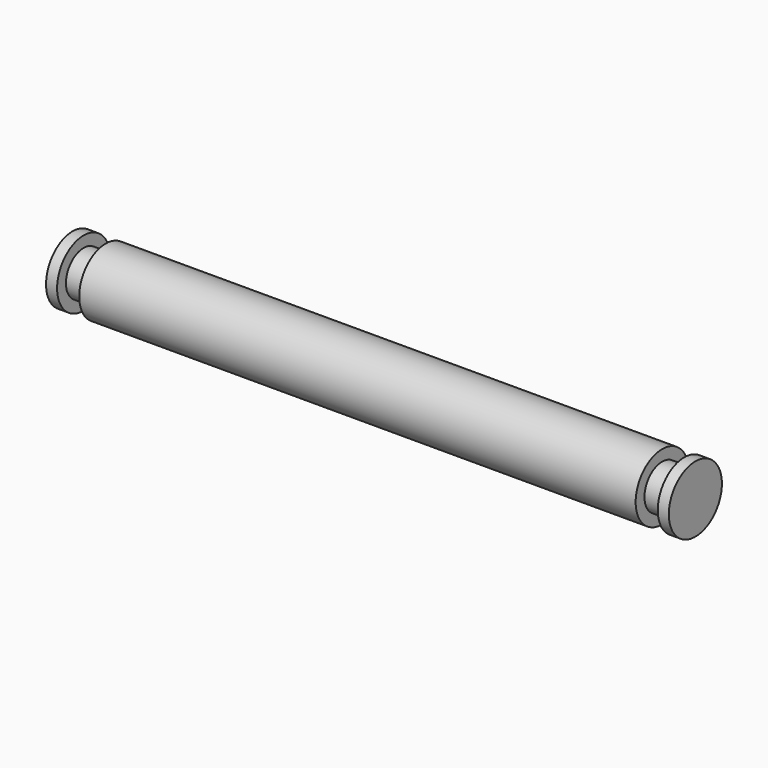
from build123d import *

# Parameters (mm, degrees)
SKETCH_R     = 3
PAD_DEPTH    = 50.3
SKETCH001_R  = 2
PAD001_DEPTH = 2
SKETCH002_R  = 3
PAD002_DEPTH = 1
SKETCH003_R  = 2
PAD003_DEPTH = 2
SKETCH004_R  = 3
PAD004_DEPTH = 1


with BuildPart() as part:
    # Sketch → Pad (new body)
    with BuildSketch(Plane.YZ):
        Circle(SKETCH_R)
    extrude(amount=PAD_DEPTH)

    # Sketch001 (on Face3 of Pad) → Pad001 (join)
    with BuildSketch(Plane.YZ.offset(50.3)):
        Circle(SKETCH001_R)
    extrude(amount=PAD001_DEPTH)

    # Sketch002 (on Face5 of Pad001) → Pad002 (join)
    with BuildSketch(Plane.YZ.offset(52.3)):
        Circle(SKETCH002_R)
    extrude(amount=PAD002_DEPTH)

    # Sketch003 (on Face7 of Pad002) → Pad003 (join)
    with BuildSketch(Plane(origin=(0, 0, 0), x_dir=(0, 1, 0), z_dir=(-1, 0, 0))):
        Circle(SKETCH003_R)
    extrude(amount=PAD003_DEPTH)

    # Sketch004 (on Face9 of Pad003) → Pad004 (join)
    with BuildSketch(Plane(origin=(-2, 0, 0), x_dir=(0, 1, 0), z_dir=(-1, 0, 0))):
        Circle(SKETCH004_R)
    extrude(amount=PAD004_DEPTH)


solid = part.part
